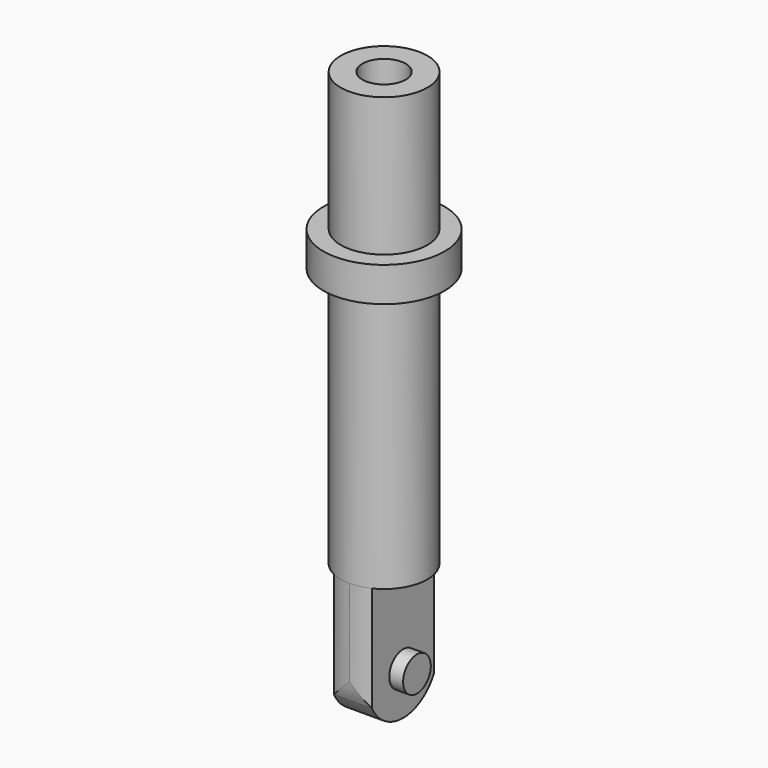
from build123d import *

# Parameters (mm, degrees)
F0_R          = 5
F1_DEPTH      = 50
F3_DEPTH      = 15
F5_DEPTH      = 25
F6_R          = 2
F7_DEPTH      = 1.6
F7_DEPTH_BACK = 6
F8_R          = 2.5
F9_DEPTH      = 10
F11_R         = 7
F11_R_2       = 5
F12_DEPTH     = 4


with BuildPart() as f1:
    # F0 (on Top) → F1 (new body)
    with BuildSketch(Plane.XY):
        Circle(F0_R)
    extrude(amount=F1_DEPTH)

    # F2 (on face) → F3 (join)
    with BuildSketch(Plane(origin=(0, 0, 0), x_dir=(1, 0, 0), z_dir=(0, 0, -1))):
        with BuildLine():
            ThreePointArc((2.2, 4.4899888641), (1.1291713066, 4.8708286934), (0, 5))
            ThreePointArc((0, 5), (-1.1291713066, 4.8708286934), (-2.2, 4.4899888641))
            Line((-2.2, 4.4899888641), (-2.2, -4.4899888641))
            ThreePointArc((-2.2, -4.4899888641), (-1.1291713066, -4.8708286934), (0, -5))
            ThreePointArc((0, -5), (1.1291713066, -4.8708286934), (2.2, -4.4899888641))
            Line((2.2, -4.4899888641), (2.2, 4.4899888641))
        make_face()
    extrude(amount=F3_DEPTH)

    # F4 (on face) → F5 (cut)
    with BuildSketch(Plane.YZ.offset(2.2)):
        with BuildLine():
            Line((5, -15), (5, -10))
            ThreePointArc((5, -10), (4.8708286934, -11.1291713066), (4.4899888641, -12.2))
            Line((4.4899888641, -12.2), (4.4899888641, -15))
            Line((4.4899888641, -15), (5, -15))
        make_face()
        with BuildLine():
            Line((4.4899888641, -15), (4.4899888641, -12.2))
            ThreePointArc((4.4899888641, -12.2), (2.6457513111, -14.2426406871), (0, -15))
            Line((0, -15), (4.4899888641, -15))
        make_face()
        with BuildLine():
            Line((-4.4899888641, -15), (0, -15))
            ThreePointArc((0, -15), (-2.6457513111, -14.2426406871), (-4.4899888641, -12.2))
            Line((-4.4899888641, -12.2), (-4.4899888641, -15))
        make_face()
        with BuildLine():
            ThreePointArc((-4.4899888641, -12.2), (-4.8708286934, -11.1291713066), (-5, -10))
            Line((-5, -10), (-5, -15))
            Line((-5, -15), (-4.4899888641, -15))
            Line((-4.4899888641, -15), (-4.4899888641, -12.2))
        make_face()
    extrude(amount=-F5_DEPTH, mode=Mode.SUBTRACT)

    # F6 (on face) → F7 (join, two sides)
    with BuildSketch(Plane.YZ.offset(2.2)) as f7_sk:
        with Locations((0, -10)):
            Circle(F6_R)
    extrude(amount=F7_DEPTH)
    extrude(f7_sk.sketch, amount=-F7_DEPTH_BACK)

    # F8 (on face) → F9 (cut)
    with BuildSketch(Plane.XY.offset(50)):
        Circle(F8_R)
    extrude(amount=-F9_DEPTH, mode=Mode.SUBTRACT)

    # F11 (on offset) → F12 (join)
    with BuildSketch(Plane.XY.offset(30)):
        Circle(F11_R)
        Circle(F11_R_2, mode=Mode.SUBTRACT)
    extrude(amount=F12_DEPTH)


solid = f1.part
